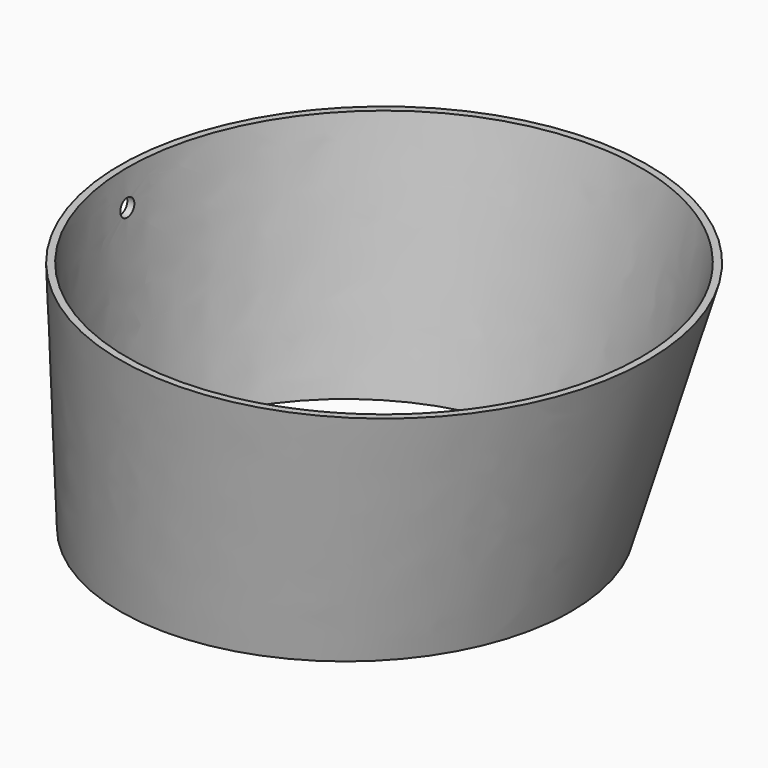
from build123d import *

# Parameters (mm, degrees)
F2_R           = 75
F0_R           = 50
F4_T           = -2
F5_R           = 2.5
F6_DEPTH       = 2.0640929826
F8_D           = 15
F8_CBORE_D     = 97
F8_CBORE_DEPTH = 5
F9_W           = 200
F9_H           = 90
F10_DEPTH      = 100


with BuildPart() as f3:
    # F2 (on offset) → F3 section 0
    with BuildSketch(Plane.XY.offset(160)):
        with Locations((75, 0)):
            Circle(F2_R)
    # F0 (on Top) → F3 section 1
    with BuildSketch(Plane.XY):
        with Locations((50, 0)):
            Circle(F0_R)
    loft()

    # F4
    f4_openings = [f3.faces().sort_by_distance(p)[0] for p in [
        (75, 0, 160),
    ]]
    offset(amount=F4_T, openings=f4_openings)

    # F5 (on Right) → F6 (cut, through all)
    with BuildSketch(Plane.YZ):
        with Locations((0, 150)):
            Circle(F5_R)
        with Locations((0, 10)):
            Circle(F5_R)
    extrude(amount=F6_DEPTH, mode=Mode.SUBTRACT)

    # F8 (through all)
    with Locations(Plane(origin=(0, 0, 0), x_dir=(1, 0, 0), z_dir=(0, 0, -1))):
        with Locations((50, 0)):
            CounterBoreHole(F8_D / 2, F8_CBORE_D / 2, F8_CBORE_DEPTH)

    # F9 (on Front) → F10 (cut, symmetric)
    with BuildSketch(Plane.XZ):
        with Locations((100, 45)):
            Rectangle(F9_W, F9_H)
    extrude(amount=F10_DEPTH, both=True, mode=Mode.SUBTRACT)


solid = f3.part
